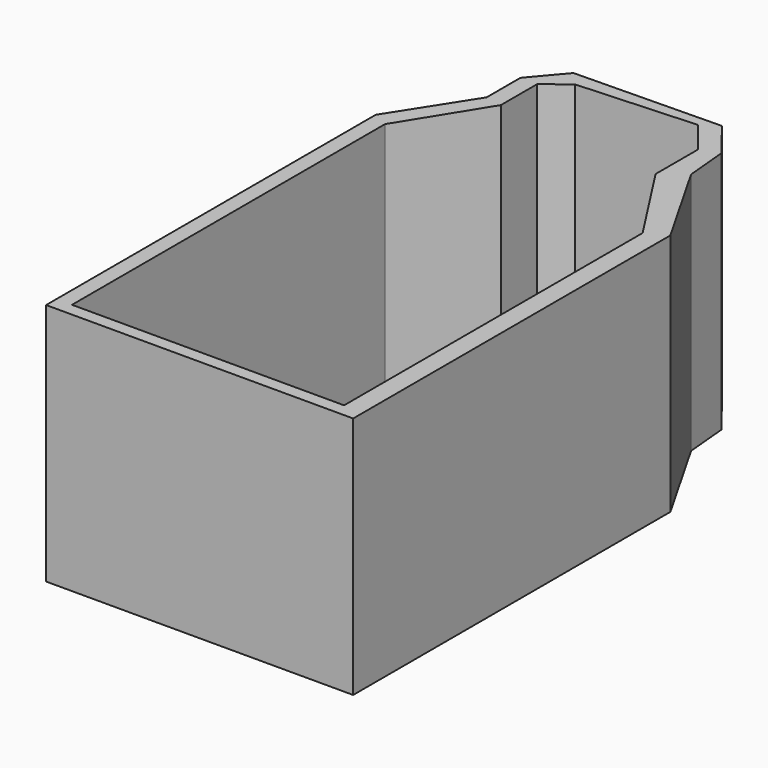
from build123d import *

# Parameters (mm, degrees)
F1_DEPTH = 53.34
F3_DEPTH = 0.254
F4_R     = 0.427399


with BuildPart() as f1:
    # F0 (on Top) → F1 (new body)
    with BuildSketch(Plane.XY):
        Polygon((-29.670693, 53.525094), (-40.17527, 37.058461), (-40.17527, -53.224109), (27.1108, -53.224109), (27.1108, 33.651568), (15.754499, 53.525094), (14.902776, 62.894039), (8.656814, 70.843451), (-23.42473, 70.275635), (-29.670693, 62.894039), align=None)
        Polygon((-25.695989, 63.177943), (-20.585654, 67.152657), (5.249925, 68.572186), (10.928073, 61.474502), (10.928073, 49.834296), (22.85219, 31.380311), (22.85219, -50.385039), (-36.768381, -50.385039), (-36.768381, 35.355017), (-25.695989, 53.241186), align=None, mode=Mode.SUBTRACT)
    extrude(amount=F1_DEPTH)

    # F2 (on Top) → F3 (join)
    with BuildSketch(Plane.XY):
        Polygon((-18.457072, 66.836618), (-20.728331, 66.836618), (-25.554758, 62.578008), (-25.554758, 53.492971), (-35.775427, 35.890706), (-35.775427, -49.84935), (22.425605, -49.84935), (22.425605, 31.064278), (10.501488, 51.789522), (10.501488, 61.442375), (5.391155, 68.540059), align=None)
    extrude(amount=-F3_DEPTH)

    # F4
    f4_edges = [f1.edges().sort_by_distance(p)[0] for p in [
        (-36.768381, 35.355017, 26.67),
        (-29.670693, 58.209566, 53.34),
        (15.754499, 53.525094, 26.67),
    ]]
    fillet(f4_edges, radius=F4_R)


solid = f1.part
